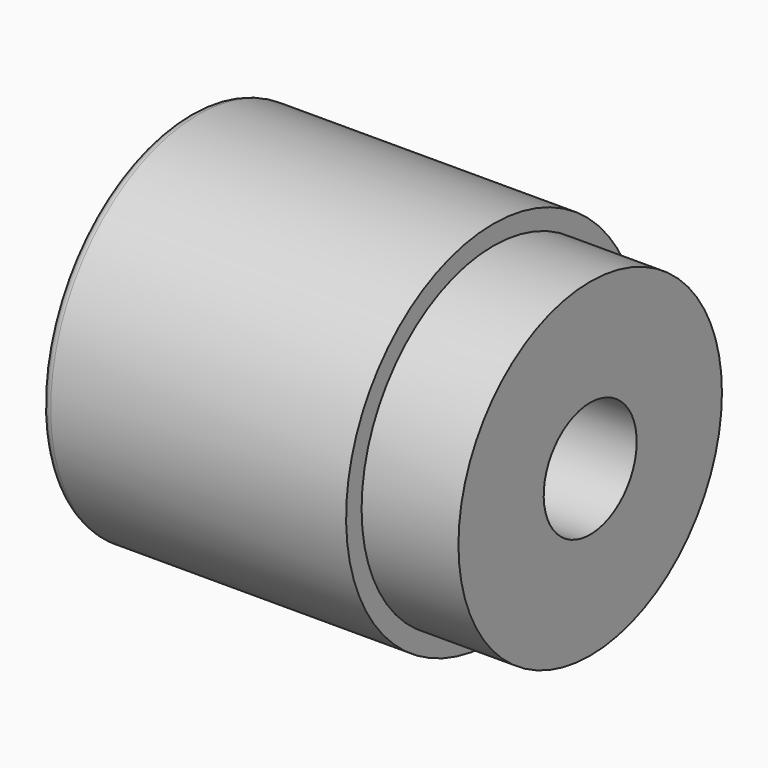
from build123d import *


with BuildPart() as f1:
    # F0 (on Front) → F1 (revolve)
    with BuildSketch(Plane.XZ):
        with BuildLine():
            Line((0, 9.5), (-15.25, 9.5))
            ThreePointArc((-15.25, 9.5), (-15.603553, 9.353553), (-15.75, 9))
            Line((-15.75, 9), (-15.75, 3))
            Line((-15.75, 3), (5, 3))
            Line((5, 3), (5, 8.5))
            Line((5, 8.5), (0, 8.5))
            Line((0, 8.5), (0, 9.5))
        make_face()
    revolve(axis=Axis((-5.375, 0, 0), (1, 0, 0)))


solid = f1.part
